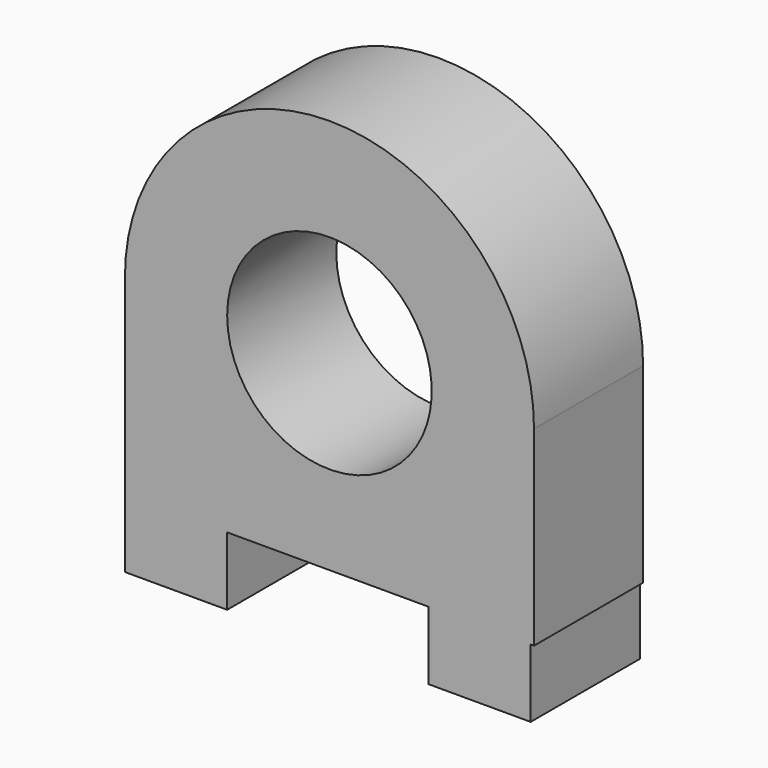
from build123d import *

# Parameters (mm, degrees)
F0_W     = 38.1
F0_H     = 25.4
F1_DEPTH = 50.8
F2_D     = 76.2


with BuildPart() as f1:
    # F0 (on Front) → F1 (new body)
    with BuildSketch(Plane.XZ):
        Polygon((-77.4996658967, 47.1252045367), (-77.4996658967, -23.9947954633), (-39.3996658967, -23.9947954633), (0.9780525733, -23.9947954633), (35.5579441879, -23.9947954633), (73.6579441879, -23.9947954633), (74.9003341033, -23.9947954633), (74.9003341033, 47.1252045367), (0, 47.1252045367), align=None)
        with Locations((-58.4496658967, -36.6947954633)):
            Rectangle(F0_W, F0_H)
        with BuildLine():
            ThreePointArc((0, 123.3252045367), (-54.7236774664, 101.4714986736), (-77.4996658967, 47.1252045367))
            Line((-77.4996658967, 47.1252045367), (0, 47.1252045367))
            Line((0, 47.1252045367), (0, 123.3252045367))
        make_face()
        with BuildLine():
            Line((0, 123.3252045367), (0, 47.1252045367))
            Line((0, 47.1252045367), (74.9003341033, 47.1252045367))
            ThreePointArc((74.9003341033, 47.1252045367), (53.0433148232, 100.5523958466), (0, 123.3252045367))
        make_face()
        with Locations((54.6079441879, -36.6947954633)):
            Rectangle(F0_W, F0_H)
    extrude(amount=F1_DEPTH)

    # F2 (through all)
    with Locations(Plane(origin=(0, 0, 0), x_dir=(1, 0, 0), z_dir=(0, 1, 0))):
        with Locations((-1.2996658967, -47.1362880764)):
            Hole(F2_D / 2)


solid = f1.part
